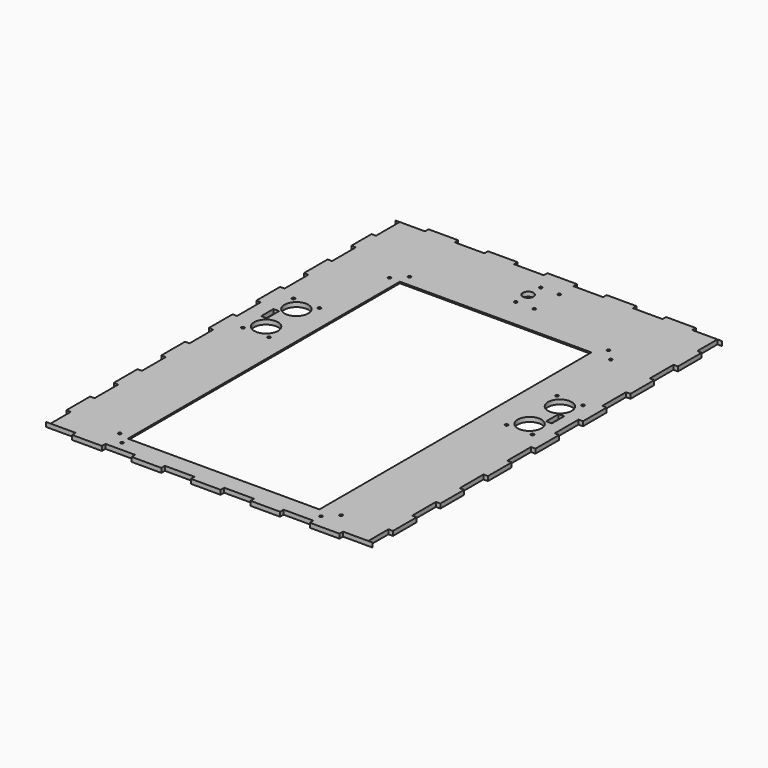
from build123d import *

# Parameters (mm, degrees)
SKETCH_W        = 220
SKETCH_H        = 300
SKETCH_W_2      = 129
SKETCH_H_2      = 229
PAD_DEPTH       = 3
SKETCH001_W     = 143
SKETCH001_H     = 237
SKETCH001_W_2   = 129
SKETCH001_H_2   = 229
POCKET_DEPTH    = 2
SKETCH002_R     = 8
SKETCH002_R_2   = 1
SKETCH002_R_3   = 3.6
SKETCH002_W     = 3.8
SKETCH002_H     = 10.4
SKETCH002_W_2   = 20
SKETCH002_H_2   = 3
SKETCH002_W_3   = 3
SKETCH002_H_3   = 17
SKETCH002_H_4   = 20
POCKET001_DEPTH = 3.001
SKETCH003_R     = 1
POCKET002_DEPTH = 5


with BuildPart() as part:
    # Sketch → Pad (new body)
    with BuildSketch(Plane.XY):
        with Locations((110, 150)):
            Rectangle(SKETCH_W, SKETCH_H)
        with Locations((110, 129.5)):
            Rectangle(SKETCH_W_2, SKETCH_H_2, mode=Mode.SUBTRACT)
    extrude(amount=PAD_DEPTH)

    # Sketch001 (on Face9 of Pad) → Pocket (cut)
    with BuildSketch(Plane(origin=(0, 0, 0), x_dir=(1, 0, 0), z_dir=(0, 0, -1))):
        with Locations((113, -130.5)):
            Rectangle(SKETCH001_W, SKETCH001_H)
        with Locations((110, -129.5)):
            Rectangle(SKETCH001_W_2, SKETCH001_H_2, mode=Mode.SUBTRACT)
    extrude(amount=-POCKET_DEPTH, mode=Mode.SUBTRACT)

    # Sketch002 (on Face5 of Pocket) → Pocket001 (cut, through all)
    with BuildSketch(Plane.XY.offset(3)):
        with Locations((22.5, 185.6)):
            Circle(SKETCH002_R)
        with Locations((22.5, 160.1)):
            Circle(SKETCH002_R)
        with Locations((13.75, 151.5)):
            Circle(SKETCH002_R_2)
        with Locations((31.25, 151.5)):
            Circle(SKETCH002_R_2)
        with Locations((13.75, 194.1)):
            Circle(SKETCH002_R_2)
        with Locations((31.25, 194.1)):
            Circle(SKETCH002_R_2)
        with Locations((200, 185.6)):
            Circle(SKETCH002_R)
        with Locations((200, 160.1)):
            Circle(SKETCH002_R)
        with Locations((191.25, 151.6)):
            Circle(SKETCH002_R_2)
        with Locations((208.75, 151.6)):
            Circle(SKETCH002_R_2)
        with Locations((191.25, 194.1)):
            Circle(SKETCH002_R_2)
        with Locations((208.75, 194.1)):
            Circle(SKETCH002_R_2)
        with Locations((107.5, 274.5)):
            Circle(SKETCH002_R_3)
        with Locations((107.5, 264)):
            Circle(SKETCH002_R_2)
        with Locations((120, 264)):
            Circle(SKETCH002_R_2)
        with Locations((107.5, 285)):
            Circle(SKETCH002_R_2)
        with Locations((120, 285)):
            Circle(SKETCH002_R_2)
        with Locations((14.95, 172.95)):
            Rectangle(SKETCH002_W, SKETCH002_H)
        with Locations((206.85, 173.05)):
            Rectangle(SKETCH002_W, SKETCH002_H)
        with Locations((10, 1.5)):
            Rectangle(SKETCH002_W_2, SKETCH002_H_2)
        with Locations((50, 1.5)):
            Rectangle(SKETCH002_W_2, SKETCH002_H_2)
        with Locations((90, 1.5)):
            Rectangle(SKETCH002_W_2, SKETCH002_H_2)
        with Locations((130, 1.5)):
            Rectangle(SKETCH002_W_2, SKETCH002_H_2)
        with Locations((170, 1.5)):
            Rectangle(SKETCH002_W_2, SKETCH002_H_2)
        with Locations((210, 1.5)):
            Rectangle(SKETCH002_W_2, SKETCH002_H_2)
        with Locations((10, 298.5)):
            Rectangle(SKETCH002_W_2, SKETCH002_H_2)
        with Locations((50, 298.5)):
            Rectangle(SKETCH002_W_2, SKETCH002_H_2)
        with Locations((90, 298.5)):
            Rectangle(SKETCH002_W_2, SKETCH002_H_2)
        with Locations((130, 298.5)):
            Rectangle(SKETCH002_W_2, SKETCH002_H_2)
        with Locations((170, 298.5)):
            Rectangle(SKETCH002_W_2, SKETCH002_H_2)
        with Locations((210, 298.5)):
            Rectangle(SKETCH002_W_2, SKETCH002_H_2)
        with Locations((1.5, 11.51)):
            Rectangle(SKETCH002_W_3, SKETCH002_H_3)
        with Locations((1.5, 286.99)):
            Rectangle(SKETCH002_W_3, SKETCH002_H_4)
        with Locations((1.5, 50)):
            Rectangle(SKETCH002_W_3, SKETCH002_H_4)
        with Locations((1.5, 90)):
            Rectangle(SKETCH002_W_3, SKETCH002_H_4)
        with Locations((1.5, 130)):
            Rectangle(SKETCH002_W_3, SKETCH002_H_4)
        with Locations((1.5, 170)):
            Rectangle(SKETCH002_W_3, SKETCH002_H_4)
        with Locations((1.5, 210)):
            Rectangle(SKETCH002_W_3, SKETCH002_H_4)
        with Locations((1.5, 250)):
            Rectangle(SKETCH002_W_3, SKETCH002_H_4)
        with Locations((218.5, 50)):
            Rectangle(SKETCH002_W_3, SKETCH002_H_4)
        with Locations((218.5, 90)):
            Rectangle(SKETCH002_W_3, SKETCH002_H_4)
        with Locations((218.5, 130)):
            Rectangle(SKETCH002_W_3, SKETCH002_H_4)
        with Locations((218.5, 170)):
            Rectangle(SKETCH002_W_3, SKETCH002_H_4)
        with Locations((218.5, 210)):
            Rectangle(SKETCH002_W_3, SKETCH002_H_4)
        with Locations((218.5, 250)):
            Rectangle(SKETCH002_W_3, SKETCH002_H_4)
        with Locations((218.5, 288.49)):
            Rectangle(SKETCH002_W_3, SKETCH002_H_3)
        with Locations((218.5, 11.51)):
            Rectangle(SKETCH002_W_3, SKETCH002_H_3)
    extrude(amount=-POCKET001_DEPTH, mode=Mode.SUBTRACT)

    # Sketch003 (on Face2 of Pocket001) → Pocket002 (cut)
    with BuildSketch(Plane(origin=(0, 0, 0), x_dir=(1, 0, 0), z_dir=(0, 0, -1))):
        with Locations((38.5, -17)):
            Circle(SKETCH003_R)
        with Locations((46, -9.5)):
            Circle(SKETCH003_R)
        with Locations((180, -251.5)):
            Circle(SKETCH003_R)
        with Locations((187.5, -244)):
            Circle(SKETCH003_R)
        with Locations((180, -9.5)):
            Circle(SKETCH003_R)
        with Locations((187.5, -17)):
            Circle(SKETCH003_R)
        with Locations((38.5, -244)):
            Circle(SKETCH003_R)
        with Locations((46, -251.5)):
            Circle(SKETCH003_R)
    extrude(amount=-POCKET002_DEPTH, mode=Mode.SUBTRACT)


solid = part.part
